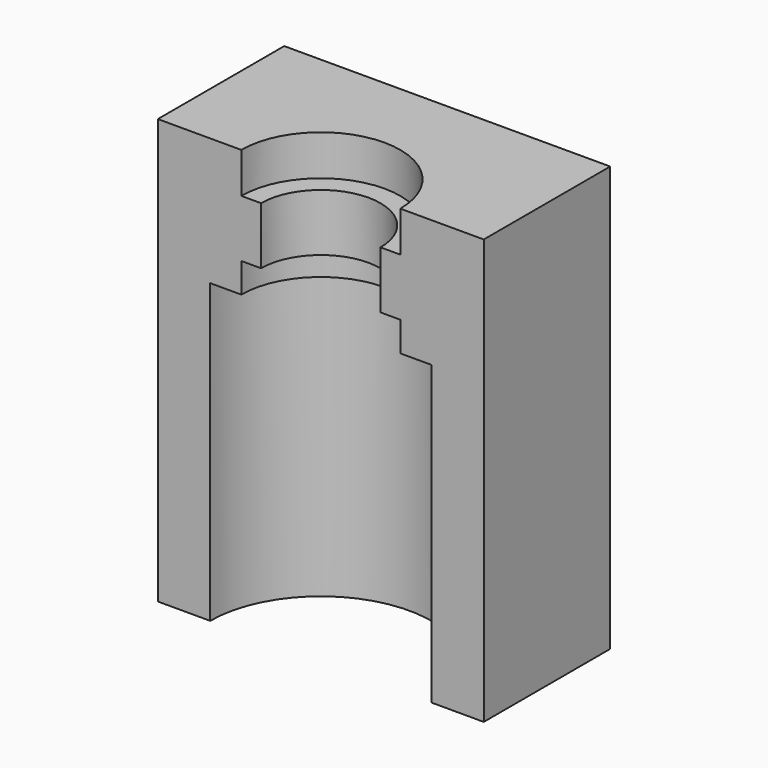
from build123d import *

# Parameters (mm, degrees)
SKETCH_W        = 33
SKETCH_H        = 43
PAD_DEPTH       = 16
SKETCH008_R     = 8.05
POCKET_DEPTH    = 4.1
SKETCH009_R     = 6.05
POCKET001_DEPTH = 5.8
SKETCH010_R     = 8.05
POCKET002_DEPTH = 3
SKETCH011_R     = 11.2
POCKET003_DEPTH = 30.101


with BuildPart() as part:
    # Sketch → Pad (new body)
    with BuildSketch(Plane.XZ):
        with Locations((0, 21.5)):
            Rectangle(SKETCH_W, SKETCH_H)
    extrude(amount=-PAD_DEPTH)

    # Sketch008 (on Face3 of Pad) → Pocket (cut)
    with BuildSketch(Plane(origin=(0, 0, 43), x_dir=(-1, 0, 0), z_dir=(0, 0, 1))):
        Circle(SKETCH008_R)
    extrude(amount=-POCKET_DEPTH, mode=Mode.SUBTRACT)

    # Sketch009 (on Face8 of Pocket) → Pocket001 (cut)
    with BuildSketch(Plane(origin=(0, 0, 38.9), x_dir=(-1, 0, 0), z_dir=(0, 0, 1))):
        Circle(SKETCH009_R)
    extrude(amount=-POCKET001_DEPTH, mode=Mode.SUBTRACT)

    # Sketch010 (on Face10 of Pocket001) → Pocket002 (cut)
    with BuildSketch(Plane(origin=(0, 0, 33.1), x_dir=(-1, 0, 0), z_dir=(0, 0, 1))):
        Circle(SKETCH010_R)
    extrude(amount=-POCKET002_DEPTH, mode=Mode.SUBTRACT)

    # Sketch011 (on Face12 of Pocket002) → Pocket003 (cut, through all)
    with BuildSketch(Plane(origin=(0, 0, 30.1), x_dir=(-1, 0, 0), z_dir=(0, 0, 1))):
        Circle(SKETCH011_R)
    extrude(amount=-POCKET003_DEPTH, mode=Mode.SUBTRACT)


solid = part.part
